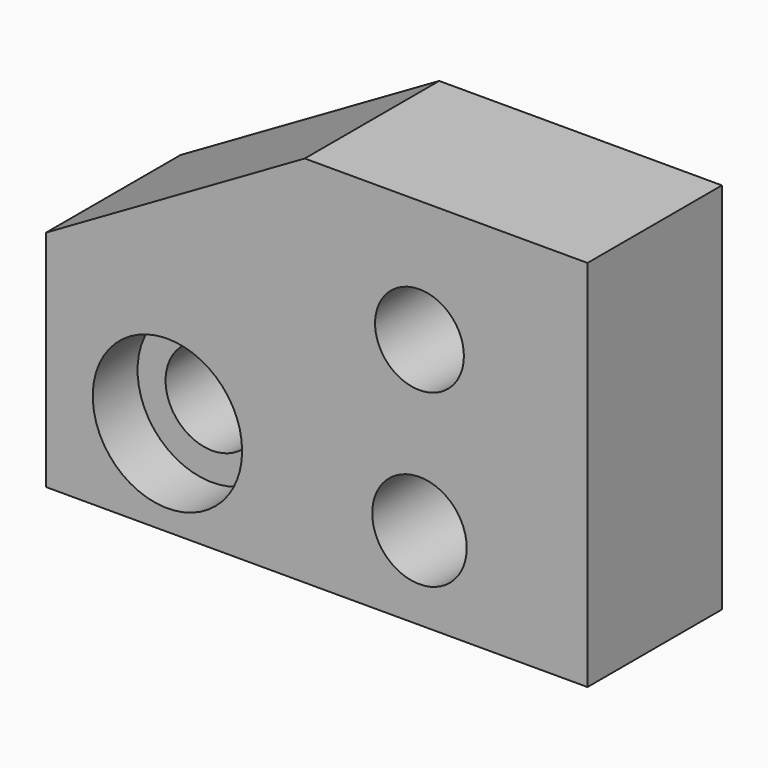
from build123d import *

# Parameters (mm, degrees)
F0_R     = 7.9375
F0_R_2   = 8.034564
F0_R_3   = 7.554828
F1_DEPTH = 28.575
F2_R     = 12.7
F3_DEPTH = 9.525


with BuildPart() as f1:
    # F0 (on Front) → F1 (new body)
    with BuildSketch(Plane.XZ):
        Polygon((0, 38.1), (0, 0), (92.075, 0), (92.075, 63.5), (43.994091, 63.5), align=None)
        with Locations((20.6375, 16.229019)):
            Circle(F0_R, mode=Mode.SUBTRACT)
        with Locations((63.5, 14.140925)):
            Circle(F0_R_2, mode=Mode.SUBTRACT)
        with Locations((63.5, 42.715925)):
            Circle(F0_R_3, mode=Mode.SUBTRACT)
    extrude(amount=F1_DEPTH)

    # F2 (on face) → F3 (cut)
    with BuildSketch(Plane.XZ.offset(28.575)):
        with Locations((20.6375, 16.229019)):
            Circle(F2_R)
    extrude(amount=-F3_DEPTH, mode=Mode.SUBTRACT)


solid = f1.part
